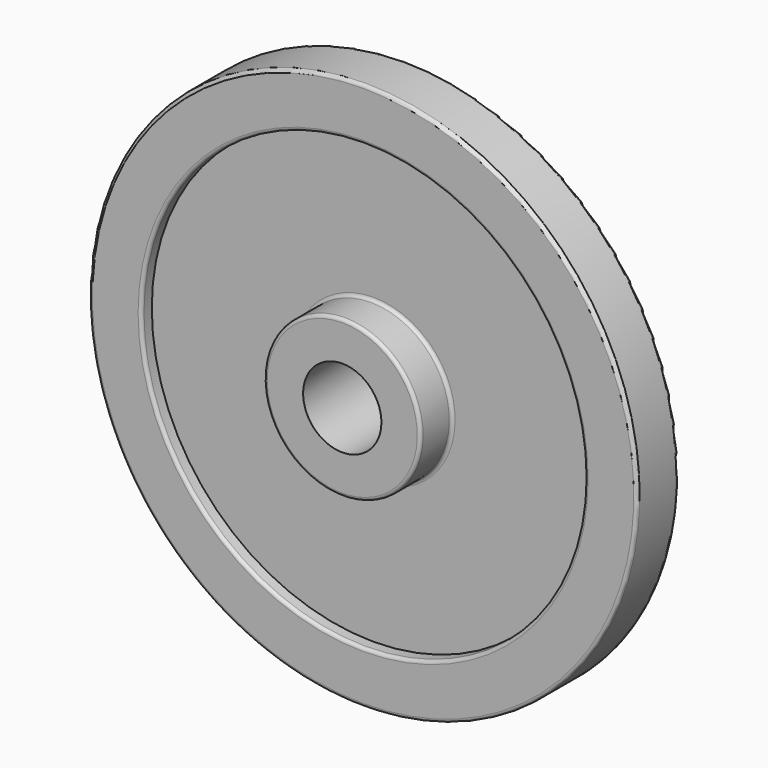
from build123d import *

# Parameters (mm, degrees)
F2_R = 1.5875


with BuildPart() as f1:
    # F0 (on Right) → F1 (revolve)
    with BuildSketch(Plane.YZ):
        Polygon((-25.4, 19.05), (0, 19.05), (25.4, 19.05), (25.4, 38.1), (6.35, 38.1), (6.35, 107.95), (12.7, 107.95), (12.7, 133.35), (0, 133.35), (-12.7, 133.35), (-12.7, 107.95), (-6.35, 107.95), (-6.35, 38.1), (-25.4, 38.1), align=None)
    revolve(axis=Axis((0, 37.490401, 0), (0, 1, 0)))

    # F2
    f2_edges = [f1.edges().sort_by_distance(p)[0] for p in [
        (0, 12.7, -133.35),
        (0, 0, 133.35),
        (0, -12.7, -133.35),
        (0, -12.7, -107.95),
        (0, -25.4, -38.1),
        (0, 25.4, -38.1),
        (0, -6.35, -38.1),
        (0, -15.875, 38.1),
    ]]
    fillet(f2_edges, radius=F2_R)


solid = f1.part
